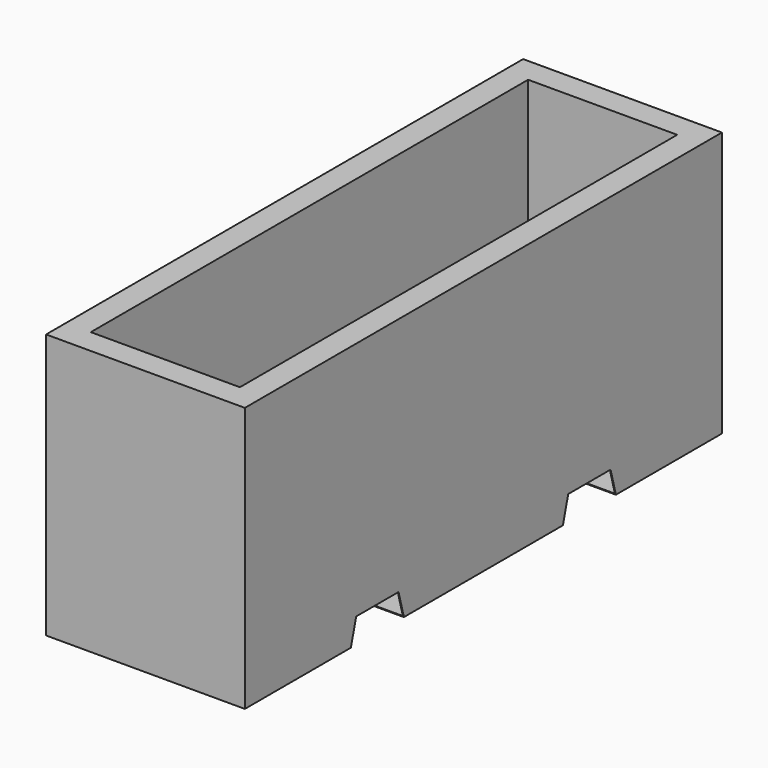
from build123d import *

# Parameters (mm, degrees)
F0_W     = 609.6
F0_H     = 812.8
F1_DEPTH = 1828.8
F2_T     = -76.2
F4_T     = -2.54
F5_DEPTH = 609.6
F6_W     = 457.2
F6_H     = 350.6177284633
F7_DEPTH = 76.2


with BuildPart() as f1:
    # F0 (on Front) → F1 (new body)
    with BuildSketch(Plane.XZ):
        Rectangle(F0_W, F0_H)
    extrude(amount=F1_DEPTH)

    # F2
    f2_openings = [f1.faces().sort_by_distance(p)[0] for p in [
        (0, -914.4, 406.4),
    ]]
    offset(amount=F2_T, openings=f2_openings)

    # F4 (hollow: no face is removed)
    offset(amount=F4_T, kind=Kind.INTERSECTION, mode=Mode.SUBTRACT)

    # F3 (on face) → F5 (cut)
    with BuildSketch(Plane.YZ.offset(304.8)):
        Polygon((-1422.4, -406.4), (-1219.2, -406.4), (-1239.6177284633, -330.2), (-1401.9822715367, -330.2), align=None)
        Polygon((-589.1822715367, -330.2), (-609.6, -406.4), (-406.4, -406.4), (-426.8177284633, -330.2), align=None)
    extrude(amount=-F5_DEPTH, mode=Mode.SUBTRACT)


with BuildPart() as f7:
    # F6 (on face) → F7 (new body)
    with BuildSketch(Plane.XY.offset(-330.2)):
        with Locations((0, -251.5088642316)):
            Rectangle(F6_W, F6_H)
        Polygon((-228.6, -426.8177284633), (-228.6, -76.2), (-229.5225858688, -76.2), (-229.5225858688, -1753.3730268478), (228.6, -1753.3730268478), (228.6, -426.8177284633), align=None)
    extrude(amount=F7_DEPTH)


solid = Compound([f1.part, f7.part])
